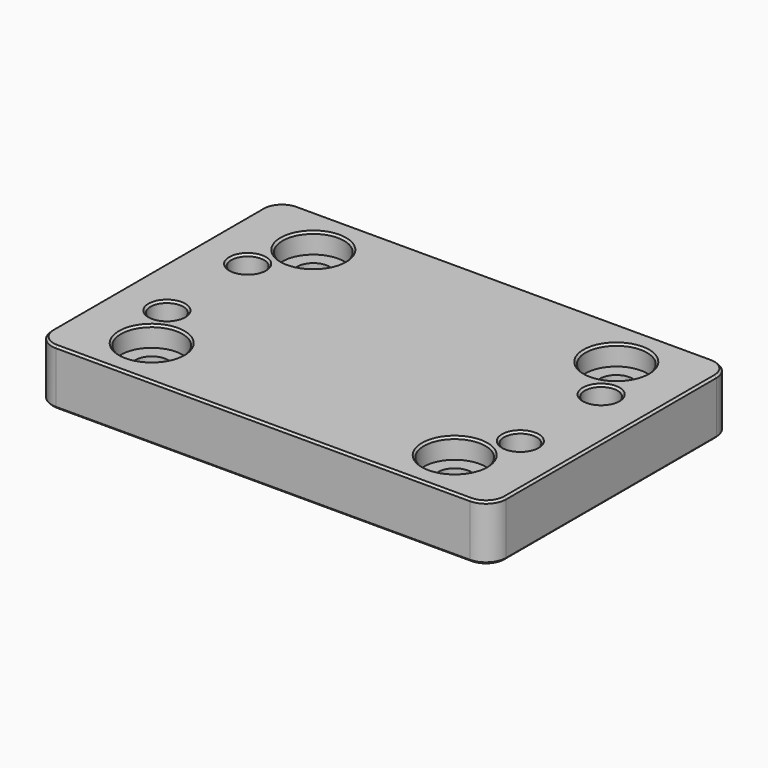
from build123d import *

# Parameters (mm, degrees)
SKETCH_W        = 90
SKETCH_H        = 60
SKETCH_R        = 3.25
PAD_DEPTH       = 11
SKETCH001_R     = 6.1
POCKET_DEPTH    = 4
POCKET001_DEPTH = 5.25
FILLET_R        = 4
CHAMFER_SIZE    = 0.4
CHAMFER001_SIZE = 0.4


with BuildPart() as part:
    # Sketch → Pad (new body)
    with BuildSketch(Plane.XY):
        with Locations((45, 30)):
            Rectangle(SKETCH_W, SKETCH_H)
        with Locations((10, 40)):
            Circle(SKETCH_R, mode=Mode.SUBTRACT)
        with Locations((80, 40)):
            Circle(SKETCH_R, mode=Mode.SUBTRACT)
        with Locations((10, 20)):
            Circle(SKETCH_R, mode=Mode.SUBTRACT)
        with Locations((80, 20)):
            Circle(SKETCH_R, mode=Mode.SUBTRACT)
        with Locations((15, 50)):
            Circle(SKETCH_R, mode=Mode.SUBTRACT)
        with Locations((75, 50)):
            Circle(SKETCH_R, mode=Mode.SUBTRACT)
        with Locations((75, 10)):
            Circle(SKETCH_R, mode=Mode.SUBTRACT)
        with Locations((15, 10)):
            Circle(SKETCH_R, mode=Mode.SUBTRACT)
    extrude(amount=PAD_DEPTH)

    # Sketch001 (on Face14 of Pad) → Pocket (cut)
    with BuildSketch(Plane.XY.offset(11)):
        with Locations((15, 50)):
            Circle(SKETCH001_R)
        with Locations((75, 50)):
            Circle(SKETCH001_R)
        with Locations((75, 10)):
            Circle(SKETCH001_R)
        with Locations((15, 10)):
            Circle(SKETCH001_R)
    extrude(amount=-POCKET_DEPTH, mode=Mode.SUBTRACT)

    # Sketch002 (on Face4 of Pocket) → Pocket001 (cut)
    with BuildSketch(Plane(origin=(0, 0, 0), x_dir=(1, 0, 0), z_dir=(0, 0, -1))):
        Polygon((15.1, -17.055514), (10, -14.111027), (4.9, -17.055514), (4.9, -22.944486), (10, -25.888973), (15.1, -22.944486), align=None)
        Polygon((80, -14.111027), (74.9, -17.055514), (74.9, -22.944486), (80, -25.888973), (85.1, -22.944486), (85.1, -17.055514), align=None)
        Polygon((10, -34.111027), (4.9, -37.055514), (4.9, -42.944486), (10, -45.888973), (15.1, -42.944486), (15.1, -37.055514), align=None)
        Polygon((80, -34.111027), (74.9, -37.055514), (74.9, -42.944486), (80, -45.888973), (85.1, -42.944486), (85.1, -37.055514), align=None)
    extrude(amount=-POCKET001_DEPTH, mode=Mode.SUBTRACT)

    # Fillet
    fillet_edges = [part.edges().sort_by_distance(p)[0] for p in [
        (0, 60, 5.5),
        (90, 60, 5.5),
        (90, 0, 5.5),
        (0, 0, 5.5),
    ]]
    fillet(fillet_edges, radius=FILLET_R)

    # Chamfer
    chamfer_edges = [part.edges().sort_by_distance(p)[0] for p in [
        (45, 60, 11),
        (1.171573, 58.828427, 11),
        (88.828427, 58.828427, 11),
        (0, 30, 11),
        (90, 30, 11),
        (1.171573, 1.171573, 11),
        (88.828427, 1.171573, 11),
        (45, 0, 11),
        (68.9, 10, 11),
        (76.75, 20, 11),
        (8.9, 10, 11),
        (6.75, 20, 11),
        (76.75, 40, 11),
        (68.9, 50, 11),
        (6.75, 40, 11),
        (8.9, 50, 11),
    ]]
    chamfer(chamfer_edges, length=CHAMFER_SIZE)

    # Chamfer001
    chamfer001_edges = [part.edges().sort_by_distance(p)[0] for p in [
        (45, 60, 0),
        (1.171573, 58.828427, 0),
        (88.828427, 58.828427, 0),
        (0, 30, 0),
        (90, 30, 0),
        (1.171573, 1.171573, 0),
        (88.828427, 1.171573, 0),
        (45, 0, 0),
        (71.75, 10, 0),
        (77.45, 15.58327, 0),
        (74.9, 20, 0),
        (77.45, 24.41673, 0),
        (82.55, 24.41673, 0),
        (85.1, 20, 0),
        (82.55, 15.58327, 0),
        (11.75, 10, 0),
        (12.55, 15.58327, 0),
        (7.45, 15.58327, 0),
        (4.9, 20, 0),
        (7.45, 24.41673, 0),
        (12.55, 24.41673, 0),
        (15.1, 20, 0),
        (77.45, 35.58327, 0),
        (74.9, 40, 0),
        (77.45, 44.41673, 0),
        (82.55, 44.41673, 0),
        (85.1, 40, 0),
        (82.55, 35.58327, 0),
        (71.75, 50, 0),
        (7.45, 35.58327, 0),
        (4.9, 40, 0),
        (7.45, 44.41673, 0),
        (12.55, 44.41673, 0),
        (15.1, 40, 0),
        (12.55, 35.58327, 0),
        (11.75, 50, 0),
    ]]
    chamfer(chamfer001_edges, length=CHAMFER001_SIZE)


solid = part.part
